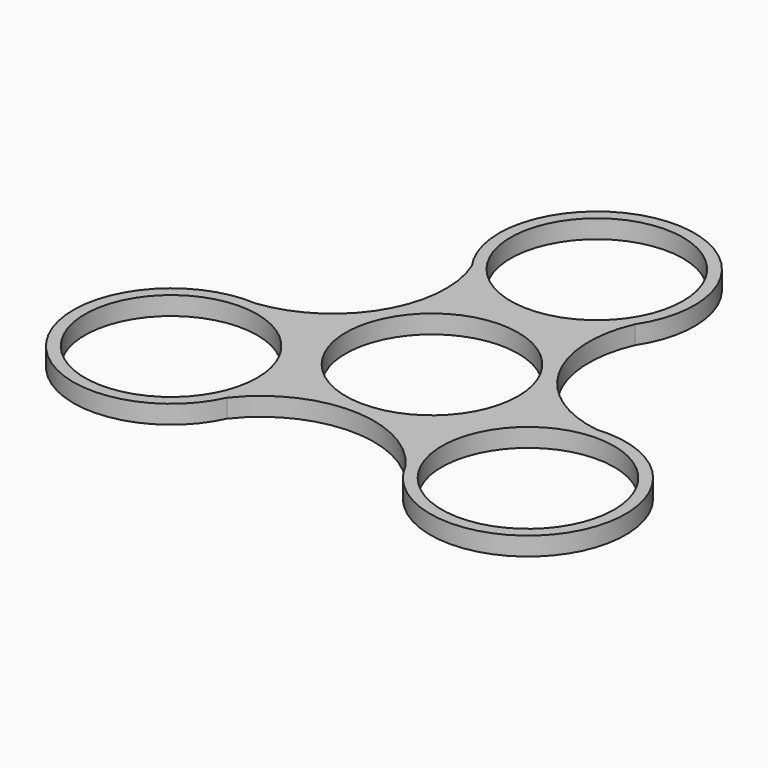
from build123d import *

# Parameters (mm, degrees)
F0_R     = 11.2
F1_DEPTH = 2.4


with BuildPart() as f1:
    # F0 (on Top) → F1 (new body)
    with BuildSketch(Plane.XY):
        with BuildLine():
            ThreePointArc((11.314053, 6.446049), (9.351579, 13.010427), (10.577312, 19.751342))
            ThreePointArc((10.577312, 19.751342), (-0.177298, 39.479362), (-10.376945, 19.458782))
            ThreePointArc((-10.376945, 19.458782), (-11.356072, 6.375934), (-22.39382, -0.71545))
            ThreePointArc((-22.39382, -0.71545), (-34.101481, -19.893226), (-11.663327, -18.716089))
            ThreePointArc((-11.663327, -18.716089), (0.156315, -13.022614), (11.816508, -19.035892))
            ThreePointArc((11.816508, -19.035892), (34.27878, -19.586136), (22.040272, -0.742693))
            ThreePointArc((22.040272, -0.742693), (15.845674, 1.611026), (11.314053, 6.446049))
        make_face()
        with Locations((-23.19268, -13.3903)):
            Circle(F0_R, mode=Mode.SUBTRACT)
        with Locations((23.19268, -13.3903)):
            Circle(F0_R, mode=Mode.SUBTRACT)
        Circle(F0_R, mode=Mode.SUBTRACT)
        with Locations((0, 26.7806)):
            Circle(F0_R, mode=Mode.SUBTRACT)
    extrude(amount=F1_DEPTH)


solid = f1.part
